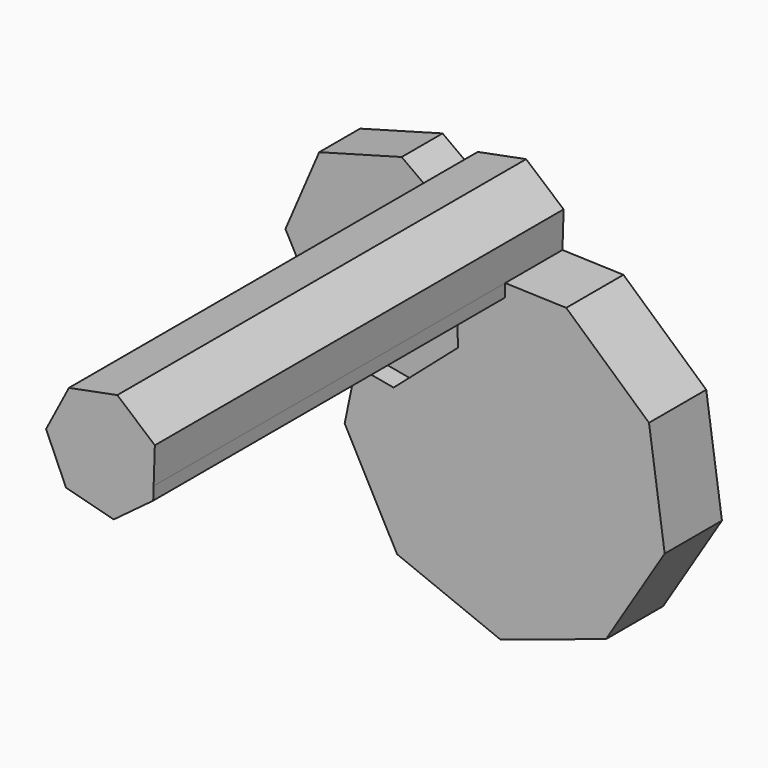
from build123d import *

# Parameters (mm, degrees)
F1_DEPTH = 17.78
F2_DEPTH = 12.7
F3_DEPTH = 127
F4_DEPTH = 50.8


with BuildPart() as f1:
    # F0 (on Front) → F1 (new body)
    with BuildSketch(Plane.XZ):
        Polygon((-26.9799930214, -30.0789192878), (-1.3335170985, -40.384194199), (24.9369262952, -31.7932558242), (39.5391047323, -8.3258997066), (35.640496637, 19.0372374158), (15.0653040652, 37.492639576), (-0.0947250793, 37.9932353779), (-0.2021778175, 34.7391396875), (-10.0282026626, 27.4203366243), (-12.1426928308, 27.9769725351), (-11.8020968639, 20.0453100056), (-27.8368135787, 6.0916620046), (-37.1591211673, 7.8023393187), (-40.0022303604, -5.6993837518), align=None)
    extrude(amount=F1_DEPTH)

    # F0 (on Front) → F2 (join)
    with BuildSketch(Plane.XZ):
        Polygon((-48.7436972284, 9.9281511173), (-37.1591211673, 7.8023393187), (-34.3069795385, 21.3469567832), (-22.0594268614, 30.9532808442), (-26.8255087596, 41.7476859043), (-23.1050903168, 48.862511609), (-29.8858768711, 53.8094276768), (-50.3869184057, 48.1948280781), (-58.7794380023, 28.6658227916), align=None)
        Polygon((-34.3069795385, 21.3469567832), (-37.1591211673, 7.8023393187), (-27.8368135787, 6.0916620046), (-11.8020968639, 20.0453100056), (-12.1426928308, 27.9769725351), (-21.8766995951, 30.539433124), (-22.0594268614, 30.9532808442), align=None)
    extrude(amount=F2_DEPTH)

    # F0 (on Front) → F3 (join)
    with BuildSketch(Plane.XZ):
        Polygon((-12.5591117109, 38.4048189943), (-0.0947250793, 37.9932353779), (0.2021778175, 46.9846343306), (-9.1196237983, 54.9357133249), (-21.1480759179, 52.6050520151), (-23.1050903168, 48.862511609), (-12.7140158191, 41.2817135729), (-12.589456174, 38.3810184234), align=None)
        Polygon((-0.2021778175, 34.7391396875), (-0.0947250793, 37.9932353779), (-12.5591117109, 38.4048189943), (-12.589456174, 38.3810184234), (-12.1426928308, 27.9769725351), (-10.0282026626, 27.4203366243), align=None)
        Polygon((-26.8255087596, 41.7476859043), (-22.0594268614, 30.9532808442), (-12.589456174, 38.3810184234), (-12.7140158191, 41.2817135729), (-23.1050903168, 48.862511609), align=None)
        Polygon((-12.589456174, 38.3810184234), (-22.0594268614, 30.9532808442), (-21.8766995951, 30.539433124), (-12.1426928308, 27.9769725351), align=None)
    extrude(amount=F3_DEPTH)

    # F0 (on Front) → F4 (cut)
    with BuildSketch(Plane.XZ):
        Polygon((-26.8255087596, 41.7476859043), (-22.0594268614, 30.9532808442), (-12.589456174, 38.3810184234), (-12.7140158191, 41.2817135729), (-23.1050903168, 48.862511609), align=None)
        Polygon((-12.5591117109, 38.4048189943), (-0.0947250793, 37.9932353779), (0.2021778175, 46.9846343306), (-9.1196237983, 54.9357133249), (-21.1480759179, 52.6050520151), (-23.1050903168, 48.862511609), (-12.7140158191, 41.2817135729), (-12.589456174, 38.3810184234), align=None)
        Polygon((-0.2021778175, 34.7391396875), (-0.0947250793, 37.9932353779), (-12.5591117109, 38.4048189943), (-12.589456174, 38.3810184234), (-12.1426928308, 27.9769725351), (-10.0282026626, 27.4203366243), align=None)
        Polygon((-12.589456174, 38.3810184234), (-22.0594268614, 30.9532808442), (-21.8766995951, 30.539433124), (-12.1426928308, 27.9769725351), align=None)
    extrude(amount=-F4_DEPTH, mode=Mode.SUBTRACT)


solid = f1.part
